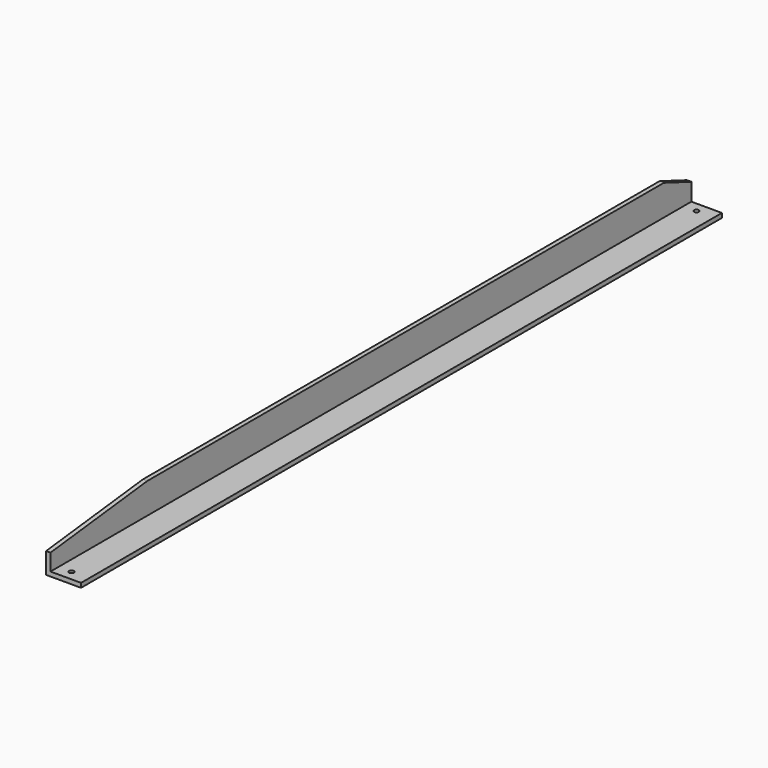
from build123d import *

# Parameters (mm, degrees)
F1_DEPTH = 291
F2_SIZE2 = 10.1
F2_SIZE  = 88
F3_SIZE2 = 25
F3_SIZE  = 9.5
F4_R     = 1.75
F5_DEPTH = 3.2


with BuildPart() as f1:
    # F0 (on Front) → F1 (new body, symmetric)
    with BuildSketch(Plane.XZ):
        Polygon((-9.5, 12.7), (-12.7, 12.7), (-12.7, -12.7), (12.7, -12.7), (12.7, -9.5), (-9.5, -9.5), align=None)
    extrude(amount=F1_DEPTH, both=True)

    # F2
    f2_edges = [f1.edges().sort_by_distance(p)[0] for p in [
        (-11.1, -291, 12.7),
    ]]
    f2_side = f1.faces().sort_by_distance((-11.1, 0, 12.7))[0]
    chamfer(f2_edges, length=F2_SIZE, length2=F2_SIZE2, reference=f2_side)

    # F3
    f3_edges = [f1.edges().sort_by_distance(p)[0] for p in [
        (-11.1, 291, 12.7),
    ]]
    f3_side = f1.faces().sort_by_distance((-11.1, 291, 12.34079))[0]
    chamfer(f3_edges, length=F3_SIZE, length2=F3_SIZE2, reference=f3_side)

    # F4 (on face) → F5 (cut, through all)
    with BuildSketch(Plane.XY.offset(-9.5)):
        with Locations((0, -283.8)):
            Circle(F4_R)
        with Locations((0, 283.8)):
            Circle(F4_R)
    extrude(amount=-F5_DEPTH, mode=Mode.SUBTRACT)


solid = f1.part
